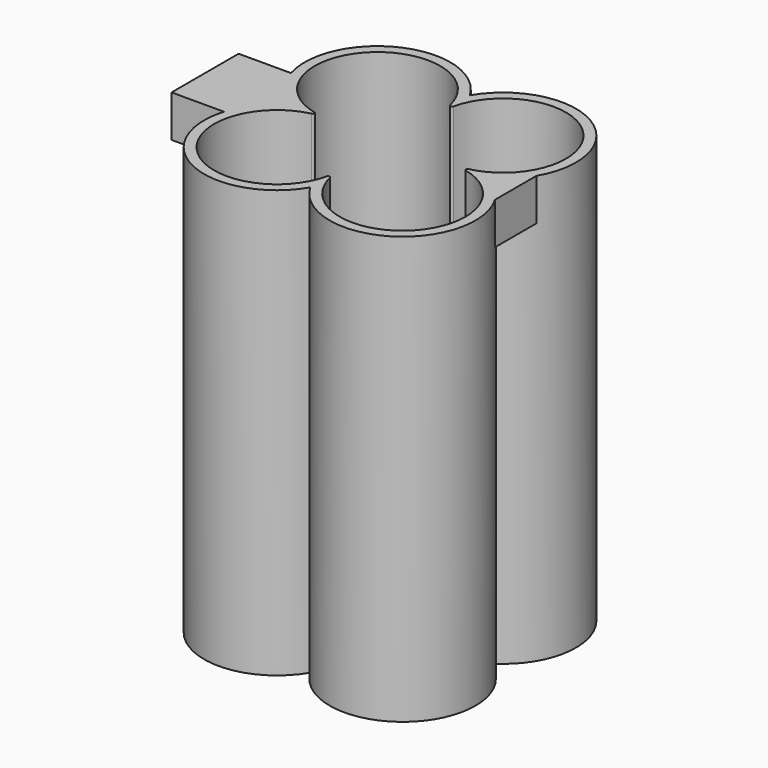
from build123d import *

# Parameters (mm, degrees)
F2_DEPTH = 51
F3_DEPTH = 1.2
F5_DEPTH = 5
F6_DEPTH = 5


with BuildPart() as f2:
    # F1 (on Top) → F2 (new body)
    with BuildSketch(Plane.XY):
        with BuildLine():
            ThreePointArc((11.909081537, 0), (13.6518289963, 13.6518289963), (0, 11.909081537))
            ThreePointArc((0, 11.909081537), (-13.6518289963, 13.6518289963), (-11.909081537, 0))
            ThreePointArc((-11.909081537, 0), (-13.6518289963, -13.6518289963), (0, -11.909081537))
            ThreePointArc((0, -11.909081537), (13.6518289963, -13.6518289963), (11.909081537, 0))
        make_face()
        with BuildLine():
            ThreePointArc((0.1948051948, 9.1982723157), (12.8033008589, 12.8033008589), (9.1982723157, 0.1948051948))
            ThreePointArc((9.1982723157, 0.1948051948), (9.0435595774, 0), (9.1982723157, -0.1948051948))
            ThreePointArc((9.1982723157, -0.1948051948), (12.8033008589, -12.8033008589), (0.1948051948, -9.1982723157))
            ThreePointArc((0.1948051948, -9.1982723157), (0, -9.0435595774), (-0.1948051948, -9.1982723157))
            ThreePointArc((-0.1948051948, -9.1982723157), (-12.8033008589, -12.8033008589), (-9.1982723157, -0.1948051948))
            ThreePointArc((-9.1982723157, -0.1948051948), (-9.0435595774, 0), (-9.1982723157, 0.1948051948))
            ThreePointArc((-9.1982723157, 0.1948051948), (-12.8033008589, 12.8033008589), (-0.1948051948, 9.1982723157))
            ThreePointArc((-0.1948051948, 9.1982723157), (0, 9.0435595774), (0.1948051948, 9.1982723157))
        make_face(mode=Mode.SUBTRACT)
    extrude(amount=F2_DEPTH)

    # F1 (on Top) → F3 (join)
    with BuildSketch(Plane.XY):
        with BuildLine():
            ThreePointArc((9.1982723157, -0.1948051948), (9.0435595774, 0), (9.1982723157, 0.1948051948))
            ThreePointArc((9.1982723157, 0.1948051948), (12.8033008589, 12.8033008589), (0.1948051948, 9.1982723157))
            ThreePointArc((0.1948051948, 9.1982723157), (0, 9.0435595774), (-0.1948051948, 9.1982723157))
            ThreePointArc((-0.1948051948, 9.1982723157), (-12.8033008589, 12.8033008589), (-9.1982723157, 0.1948051948))
            ThreePointArc((-9.1982723157, 0.1948051948), (-9.0435595774, 0), (-9.1982723157, -0.1948051948))
            ThreePointArc((-9.1982723157, -0.1948051948), (-12.8033008589, -12.8033008589), (-0.1948051948, -9.1982723157))
            ThreePointArc((-0.1948051948, -9.1982723157), (0, -9.0435595774), (0.1948051948, -9.1982723157))
            ThreePointArc((0.1948051948, -9.1982723157), (12.8033008589, -12.8033008589), (9.1982723157, -0.1948051948))
        make_face()
    extrude(amount=F3_DEPTH)

    # F4 (on face) → F5 (join)
    with BuildSketch(Plane.XY.offset(51)):
        with BuildLine():
            ThreePointArc((-11.909081537, 0), (-14.3440182045, 2.1288348735), (-15.8330666624, 5))
            Line((-15.8330666624, 5), (-22.0820734114, 5))
            Line((-22.0820734114, 5), (-22.0820734114, -5))
            Line((-22.0820734114, -5), (-15.8330666624, -5))
            ThreePointArc((-15.8330666624, -5), (-14.3440182045, -2.1288348735), (-11.909081537, 0))
        make_face()
    extrude(amount=-F5_DEPTH)

    # F4 (on face) → F6 (join)
    with BuildSketch(Plane.XY.offset(51)):
        with BuildLine():
            Line((15, -3.090918463), (15, 3.090918463))
            ThreePointArc((15, 3.090918463), (13.6518289963, 1.3481710037), (11.909081537, 0))
            ThreePointArc((11.909081537, 0), (13.6518289963, -1.3481710037), (15, -3.090918463))
        make_face()
    extrude(amount=-F6_DEPTH)


solid = f2.part
